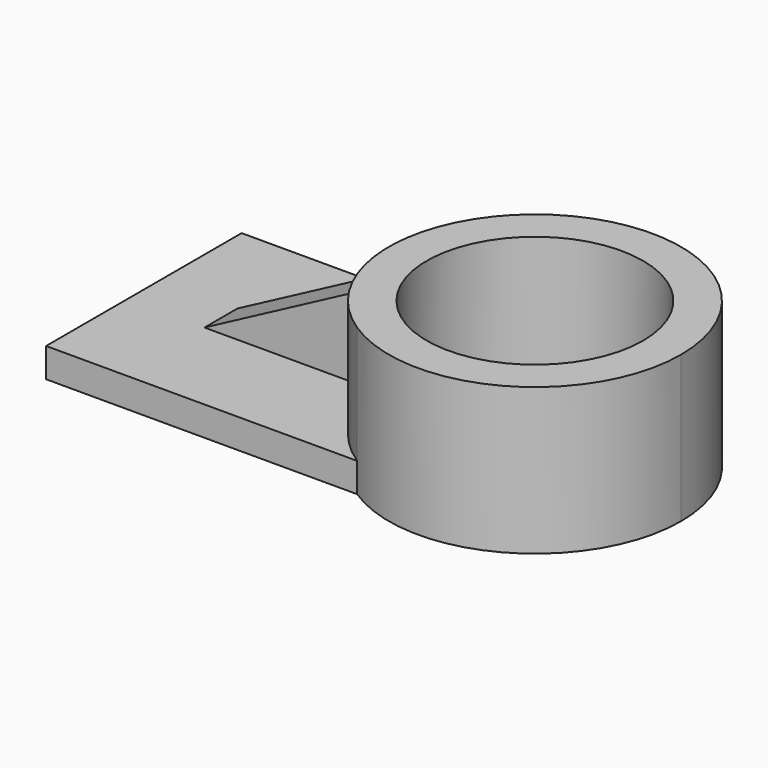
from build123d import *

# Parameters (mm, degrees)
F0_R     = 28.103341
F1_DEPTH = 38.1
F2_DEPTH = 7.62
F3_DEPTH = 30.988
F5_DEPTH = 25.4


with BuildPart() as f1:
    # F0 (on Top) → F1 (new body)
    with BuildSketch(Plane.XY):
        with BuildLine():
            ThreePointArc((88.158266, 5.448709), (68.256571, 38.830986), (29.426306, 37.198709))
            ThreePointArc((29.426306, 37.198709), (18.187712, 25.81016), (12.641991, 10.801828))
            ThreePointArc((12.641991, 10.801828), (12.262525, 5.448709), (12.641991, 0.09559))
            ThreePointArc((12.641991, 0.09559), (18.187712, -14.912741), (29.426306, -26.301291))
            ThreePointArc((29.426306, -26.301291), (68.256571, -27.933568), (88.158266, 5.448709))
        make_face()
        with Locations((50.210395, 5.448709)):
            Circle(F0_R, mode=Mode.SUBTRACT)
    extrude(amount=F1_DEPTH)

    # F0 (on Top) → F2 (join)
    with BuildSketch(Plane.XY):
        with BuildLine():
            Line((29.426306, 37.198709), (-51.389605, 37.198709))
            Line((-51.389605, 37.198709), (-51.389605, -26.301291))
            Line((-51.389605, -26.301291), (29.426306, -26.301291))
            ThreePointArc((29.426306, -26.301291), (18.187712, -14.912741), (12.641991, 0.09559))
            Line((12.641991, 0.09559), (-31.35398, 0.09559))
            Line((-31.35398, 0.09559), (-31.35398, 10.801828))
            Line((-31.35398, 10.801828), (12.641991, 10.801828))
            ThreePointArc((12.641991, 10.801828), (18.187712, 25.81016), (29.426306, 37.198709))
        make_face()
    extrude(amount=F2_DEPTH)

    # F0 (on Top) → F3 (join)
    with BuildSketch(Plane.XY):
        with BuildLine():
            ThreePointArc((12.641991, 0.09559), (12.262525, 5.448709), (12.641991, 10.801828))
            Line((12.641991, 10.801828), (-31.35398, 10.801828))
            Line((-31.35398, 10.801828), (-31.35398, 0.09559))
            Line((-31.35398, 0.09559), (12.641991, 0.09559))
        make_face()
    extrude(amount=F3_DEPTH)

    # F4 (on face) → F5 (cut)
    with BuildSketch(Plane.XZ.offset(-0.09559)):
        Polygon((-31.35398, 7.62), (12.641991, 30.988), (-31.35398, 30.988), align=None)
    extrude(amount=-F5_DEPTH, mode=Mode.SUBTRACT)


solid = f1.part
